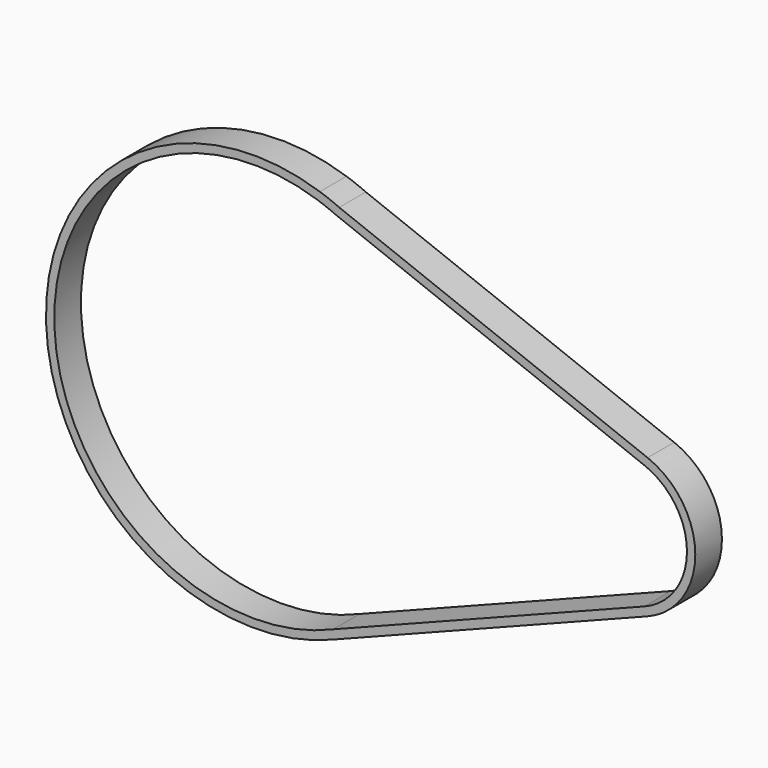
from build123d import *

# Parameters (mm, degrees)
F1_DEPTH = 12.7


with BuildPart() as f1:
    # F0 (on Front) → F1 (new body)
    with BuildSketch(Plane.XZ):
        with BuildLine():
            Line((-42.210751, 75.308361), (-34.82903, 72.433293))
            ThreePointArc((-34.82903, 72.433293), (-38.484001, 73.962974), (-42.210751, 75.308361))
        make_face()
        with BuildLine():
            Line((82.779232, 26.626671), (-34.82903, 72.433293))
            Line((-34.82903, 72.433293), (-42.210751, 75.308361))
            ThreePointArc((-42.210751, 75.308361), (-146.620087, -2.712553), (-37.125179, -73.419253))
            Line((-37.125179, -73.419253), (82.796895, -26.619785))
            ThreePointArc((82.796895, -26.619785), (100.983549, 0.009479), (82.779232, 26.626671))
        make_face()
        with BuildLine():
            ThreePointArc((-43.288432, 72.320779), (-39.636299, 71.004455), (-36.055945, 69.503836))
            Line((-36.055945, 69.503836), (81.626934, 23.668152))
            ThreePointArc((81.626934, 23.668152), (97.80855, 0.005037), (81.63632, -23.664494))
            Line((81.63632, -23.664494), (-37.125179, -69.974539))
            ThreePointArc((-37.125179, -69.974539), (-143.420073, -3.297367), (-43.288432, 72.320779))
        make_face(mode=Mode.SUBTRACT)
    extrude(amount=F1_DEPTH)


solid = f1.part
